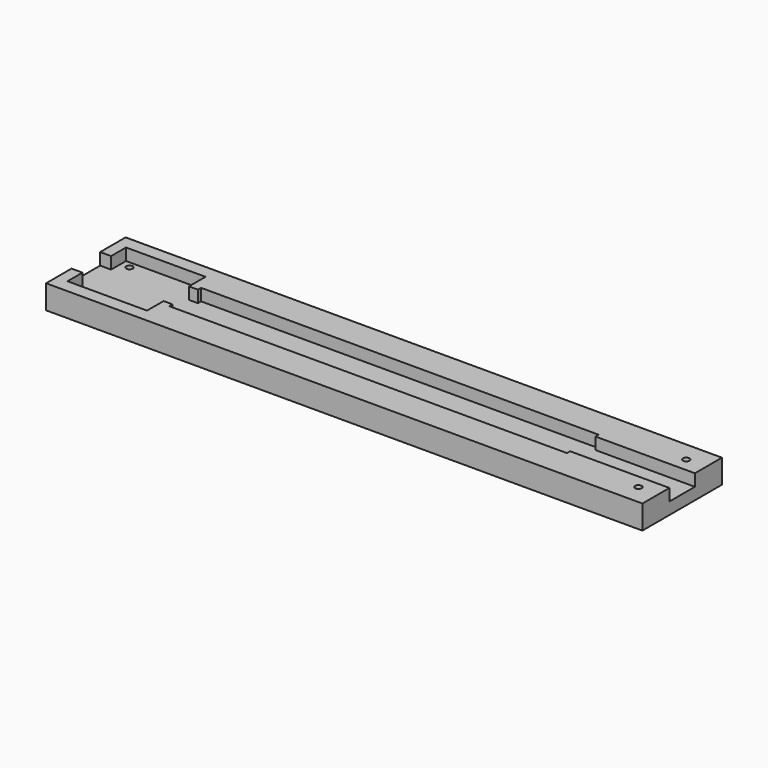
from build123d import *

# Parameters (mm, degrees)
SKETCH_W              = 150
SKETCH_H              = 25
PAD_DEPTH             = 3
PAD001_DEPTH          = 3
SKETCH003_R           = 0.825
POCKET_DEPTH          = 313.375769
POLARPATTERN_COUNT    = 2
POLARPATTERN001_COUNT = 2
POLARPATTERN002_COUNT = 2


with BuildPart() as part:
    # Sketch → Pad (new body)
    with BuildSketch(Plane.XY):
        Rectangle(SKETCH_W, SKETCH_H)
    extrude(amount=PAD_DEPTH)

    # Sketch001 (on Face6 of Pad) → Pad001 (join)
    with BuildSketch(Plane.XY.offset(3)):
        Polygon((-75, 12.5), (75, 12.5), (75, 4), (50, 4), (50, 5), (-50, 5), (-50, 4), (-52.25, 4), (-52.25, 9.2), (-72.25, 9.2), (-72.25, 4.5), (-75, 4.5), align=None)
        Polygon((-75, -12.5), (75, -12.5), (75, -4), (50, -4), (50, -5), (-50, -5), (-50, -4), (-52.25, -4), (-52.25, -9.2), (-72.25, -9.2), (-72.25, -4.5), (-75, -4.5), align=None)
    extrude(amount=PAD001_DEPTH)

    # Sketch003 → Pocket (cut, through all)
    with BuildSketch(Plane.XY.offset(9)):
        with Locations((-70, 7.5)):
            Circle(SKETCH003_R)
    pocket = extrude(amount=-POCKET_DEPTH, mode=Mode.SUBTRACT)

    # PolarPattern: Pocket ×2 about axis
    polarpattern_axis = Axis((0, 0, 0), (0, 1, 0))
    for i in range(1, POLARPATTERN_COUNT):
        add(pocket.rotate(polarpattern_axis, i * 360 / POLARPATTERN_COUNT), mode=Mode.SUBTRACT)

    # PolarPattern001: Pocket ×2 about axis
    polarpattern001_axis = Axis((0, 0, 0), (1, 0, 0))
    for i in range(1, POLARPATTERN001_COUNT):
        add(pocket.rotate(polarpattern001_axis, i * 360 / POLARPATTERN001_COUNT), mode=Mode.SUBTRACT)

    # PolarPattern002: Pocket ×2 about axis
    polarpattern002_axis = Axis((0, 0, 9), (0, 0, 1))
    for i in range(1, POLARPATTERN002_COUNT):
        add(pocket.rotate(polarpattern002_axis, i * 360 / POLARPATTERN002_COUNT), mode=Mode.SUBTRACT)


solid = part.part
